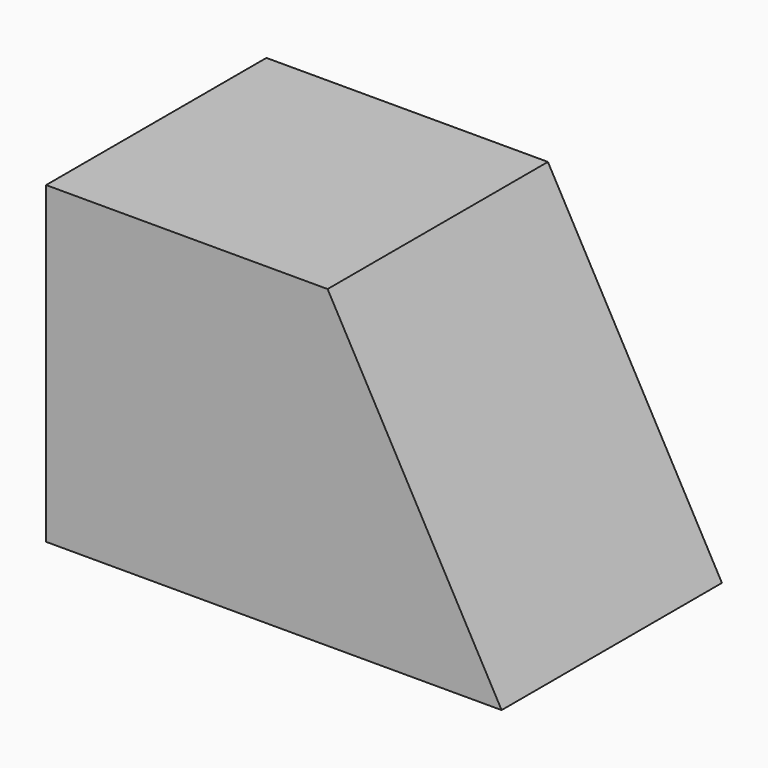
from build123d import *

# Parameters (mm, degrees)
F0_W     = 110.5105765164
F0_H     = 66.8086167425
F1_DEPTH = 76.2
F3_DEPTH = 94.488


with BuildPart() as f1:
    # F0 (on Top) → F1 (new body)
    with BuildSketch(Plane.XY):
        with Locations((13.9044951648, -27.1762395278)):
            Rectangle(F0_W, F0_H)
    extrude(amount=F1_DEPTH)

    # F2 (on face) → F3 (cut)
    with BuildSketch(Plane.XZ.offset(60.580547899)):
        Polygon((26.9445367157, 76.2), (69.1597834229, 0), (69.1597834229, 5.741244182), (69.1597834229, 76.2), align=None)
    extrude(amount=-F3_DEPTH, mode=Mode.SUBTRACT)


solid = f1.part
